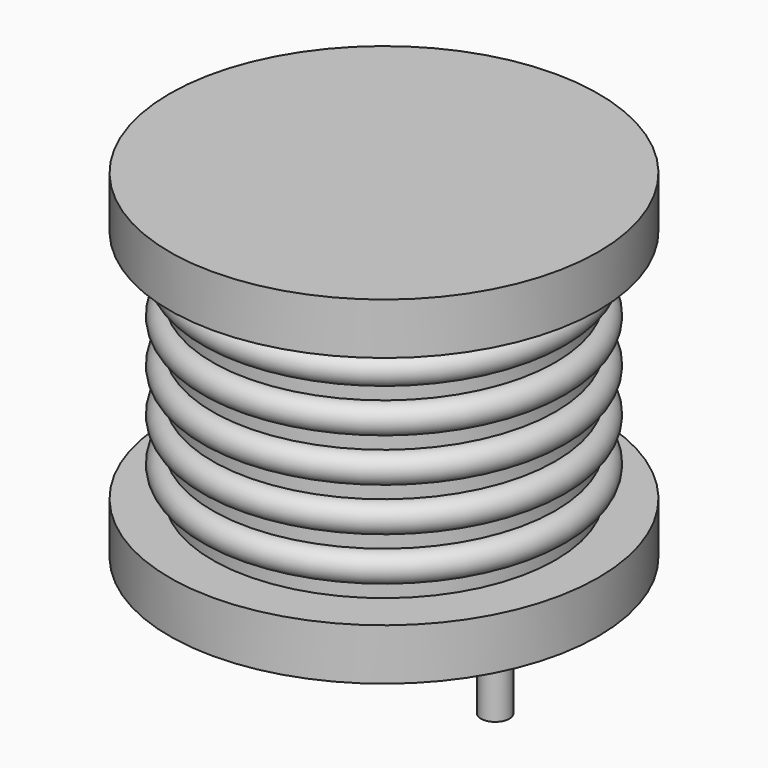
from build123d import *

# Parameters (mm, degrees)
SKETCH001_R  = 0.45
PAD001_DEPTH = 3.5


with BuildPart() as revolution:
    # Sketch → Revolution (revolve)
    with BuildSketch(Plane(origin=(3.5, 0, 0), x_dir=(1, 0, 0), z_dir=(0, -1, 0))):
        Polygon((0, 0.05), (2.6, 0.05), (2.6, 0.2), (6.75, 0.2), (6.75, 1.82), (1.35, 1.82), (1.35, 9.23), (6.75, 9.23), (6.75, 10.85), (0, 10.85), align=None)
    revolve(axis=Axis((3.5, 0, 0), (0, 0, 1)))


with BuildPart() as pad001:
    # Sketch001 → Pad001 (new body)
    with BuildSketch(Plane.XY.offset(0.5)):
        Circle(SKETCH001_R)
        with Locations((7, 0)):
            Circle(SKETCH001_R)
    extrude(amount=-PAD001_DEPTH)


with BuildPart() as obj1:
    # Sketch002 → Revolution001 (revolve)
    with BuildSketch(Plane(origin=(3.5, 0, 0), x_dir=(1, 0, 0), z_dir=(0, -1, 0))):
        with BuildLine():
            Line((5.4, 1.87), (1.35, 1.87))
            Line((1.35, 1.87), (1.35, 9.18))
            Line((1.35, 9.18), (5.4, 9.18))
            Line((5.4, 9.18), (5.4, 8.723125))
            ThreePointArc((5.4, 7.809375), (5.856875, 8.26625), (5.4, 8.723125))
            Line((5.4, 7.809375), (5.4, 7.3525))
            ThreePointArc((5.4, 6.43875), (5.856875, 6.895625), (5.4, 7.3525))
            Line((5.4, 6.43875), (5.4, 5.981875))
            ThreePointArc((5.4, 5.068125), (5.856875, 5.525), (5.4, 5.981875))
            Line((5.4, 5.068125), (5.4, 4.61125))
            ThreePointArc((5.4, 3.6975), (5.856875, 4.154375), (5.4, 4.61125))
            Line((5.4, 3.6975), (5.4, 3.240625))
            ThreePointArc((5.4, 2.326875), (5.856875, 2.78375), (5.4, 3.240625))
            Line((5.4, 1.87), (5.4, 2.326875))
        make_face()
    revolve(axis=Axis((3.5, 0, 0), (0, 0, 1)))

    add(revolution.part)
    add(pad001.part)


solid = obj1.part
